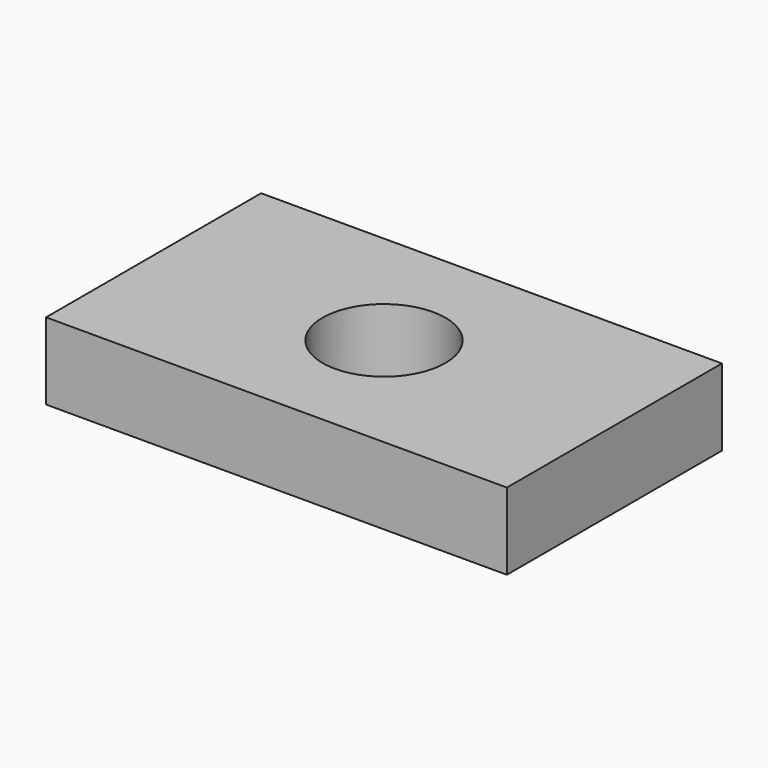
from build123d import *

# Parameters (mm, degrees)
F0_W     = 60
F0_H     = 10
F1_DEPTH = 17.5
F2_R     = 8
F3_DEPTH = 10.001


with BuildPart() as f1:
    # F0 (on Front) → F1 (new body, symmetric)
    with BuildSketch(Plane.XZ):
        Rectangle(F0_W, F0_H)
    extrude(amount=F1_DEPTH, both=True)

    # F2 (on face) → F3 (cut, through all)
    with BuildSketch(Plane.XY.offset(5)):
        Circle(F2_R)
        Circle(F2_R)
    extrude(amount=-F3_DEPTH, mode=Mode.SUBTRACT)


solid = f1.part
